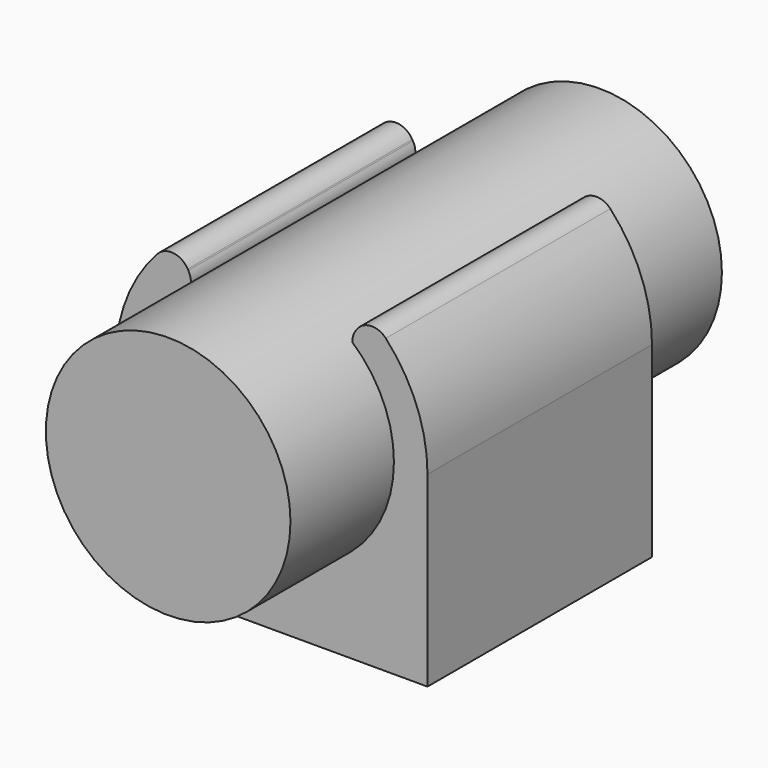
from build123d import *

# Parameters (mm, degrees)
F1_DEPTH = 9.398
F2_R     = 2.032
F3_DEPTH = 12.5232
F4_R     = 3.3655
F5_DEPTH = 10.6934
F6_R     = 8.1915
F7_DEPTH = 18.0594
F8_W     = 35.35
F8_H     = 35.35
F8_R     = 1.7145
F9_DEPTH = 0.6


with BuildPart() as f1:
    # F0 (on Front) → F1 (new body, symmetric)
    with BuildSketch(Plane.XZ):
        with BuildLine():
            Line((10.4394, -12.5222), (10.4394, 0))
            ThreePointArc((10.4394, 0), (9.716011, 3.818403), (7.646097, 7.107621))
            ThreePointArc((7.646097, 7.107621), (6.573141, 7.504896), (5.616063, 6.877947))
            Line((5.616063, 6.877947), (5.576187, 6.808879))
            ThreePointArc((5.576187, 6.808879), (5.413907, 6.032732), (5.743631, 5.311606))
            ThreePointArc((5.743631, 5.311606), (0, -7.8232), (-5.743631, 5.311606))
            ThreePointArc((-5.743631, 5.311606), (-5.413907, 6.032732), (-5.576187, 6.808879))
            Line((-5.576187, 6.808879), (-5.616063, 6.877947))
            ThreePointArc((-5.616063, 6.877947), (-6.573141, 7.504896), (-7.646097, 7.107621))
            ThreePointArc((-7.646097, 7.107621), (-9.716011, 3.818403), (-10.4394, 0))
            Line((-10.4394, 0), (-10.4394, -12.5222))
            Line((-10.4394, -12.5222), (10.4394, -12.5222))
        make_face()
    extrude(amount=F1_DEPTH, both=True)

    # F2 (on Top) → F3 (cut, through all)
    with BuildSketch(Plane.XY):
        with Locations((0, 5.207)):
            Circle(F2_R)
        with Locations((0, -5.207)):
            Circle(F2_R)
    extrude(amount=-F3_DEPTH, mode=Mode.SUBTRACT)

    # F4 (on Top) → F5 (cut)
    with BuildSketch(Plane.XY):
        with Locations((0, 5.207)):
            Circle(F4_R)
        with Locations((0, -5.207)):
            Circle(F4_R)
    extrude(amount=-F5_DEPTH, mode=Mode.SUBTRACT)


with BuildPart() as f7:
    # F6 (on Front) → F7 (new body, symmetric)
    with BuildSketch(Plane.XZ):
        Circle(F6_R)
    extrude(amount=F7_DEPTH, both=True)


with BuildPart() as f9:
    # F8 (on Front) → F9 (new body)
    with BuildSketch(Plane.XZ):
        with Locations((-14.5, 32.681693)):
            Rectangle(F8_W, F8_H)
        with Locations((-29, 18.181693)):
            Circle(F8_R, mode=Mode.SUBTRACT)
        with Locations((0, 18.181693)):
            Circle(F8_R, mode=Mode.SUBTRACT)
        with Locations((-29, 47.181693)):
            Circle(F8_R, mode=Mode.SUBTRACT)
        with Locations((0, 47.181693)):
            Circle(F8_R, mode=Mode.SUBTRACT)
    extrude(amount=F9_DEPTH)


solid = Compound([f1.part, f7.part])
